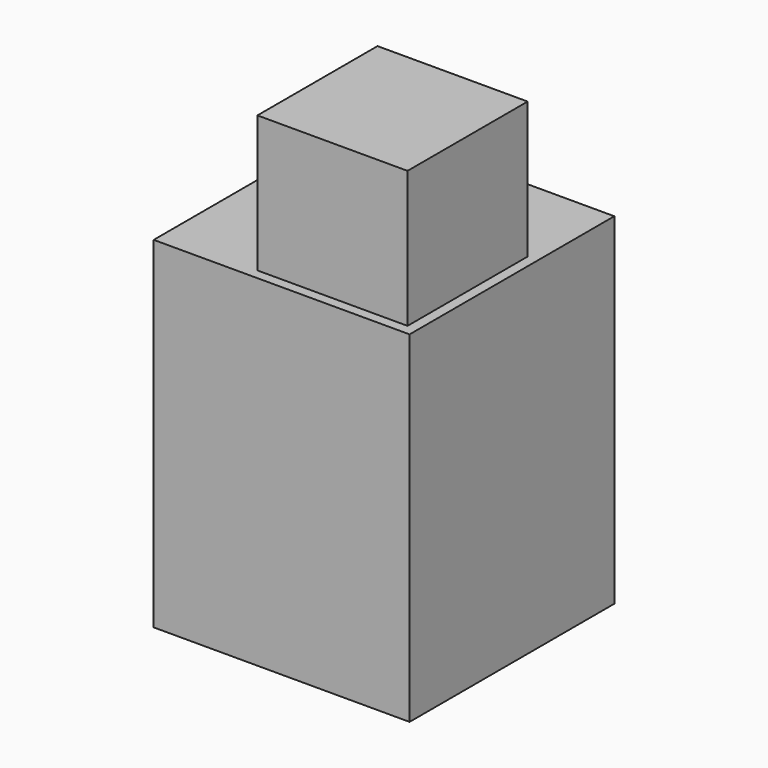
from build123d import *

# Parameters (mm, degrees)
BOX_W              = 10
BOX_H              = 10
BOX_DEPTH          = 10
SKETCH_W           = 4.4
SKETCH_H           = 4.4
PAD_DEPTH          = 4
PAD_FACE4_W        = 10
PAD_FACE4_H        = 10
POCKET_DEPTH       = 2.5
POCKET_FACE5_W     = 10
POCKET_FACE5_H     = 10
POCKET001_DEPTH    = 2.5
SKETCH001_W        = 5
SKETCH001_H        = 10
PAD001_DEPTH       = 10
SKETCH002_W        = 4.4
SKETCH002_H        = 4.4
PAD002_DEPTH       = 4
PAD002_FACE22_W    = 4.4
PAD002_FACE22_H    = 4.4
POCKET002_DEPTH    = 5
POCKET002_FACE16_W = 5
POCKET002_FACE16_H = 10
POCKET003_DEPTH    = 7.5
POCKET003_FACE7_W  = 2.5
POCKET003_FACE7_H  = 10
POCKET004_DEPTH    = 5


with BuildPart() as part:
    # Box → Box (new body)
    with BuildSketch(Plane.XY):
        with Locations((5, 5)):
            Rectangle(BOX_W, BOX_H)
    extrude(amount=BOX_DEPTH)

    # Sketch (on Face6 of BaseFeature) → Pad (new body)
    with BuildSketch(Plane.XY.offset(10)):
        with Locations((5, 5)):
            Rectangle(SKETCH_W, SKETCH_H)
    extrude(amount=PAD_DEPTH)

    # Pad Face4 → Pocket (cut)
    with BuildSketch(Plane(origin=(5, 10, 5), x_dir=(1, 0, 0), z_dir=(0, 1, 0))):
        Rectangle(PAD_FACE4_W, PAD_FACE4_H)
    extrude(amount=-POCKET_DEPTH, mode=Mode.SUBTRACT)

    # Pocket Face5 → Pocket001 (cut)
    with BuildSketch(Plane(origin=(5, 0, 5), x_dir=(-1, 0, 0), z_dir=(0, -1, 0))):
        Rectangle(POCKET_FACE5_W, POCKET_FACE5_H)
    extrude(amount=-POCKET001_DEPTH, mode=Mode.SUBTRACT)

    # Sketch001 (on Face3 of Pocket001) → Pad001 (join)
    with BuildSketch(Plane(origin=(0, 7.5, 0), x_dir=(-1, 0, 0), z_dir=(0, 1, 0))):
        with Locations((-5, 5)):
            Rectangle(SKETCH001_W, SKETCH001_H)
    extrude(amount=PAD001_DEPTH)

    # Sketch002 (on Face6 of Pad001) → Pad002 (join)
    with BuildSketch(Plane.XY.offset(10)):
        with Locations((5, 12.5)):
            Rectangle(SKETCH002_W, SKETCH002_H)
    extrude(amount=PAD002_DEPTH)

    # Pad002 Face22 → Pocket002 (cut)
    with BuildSketch(Plane(origin=(5, 12.5, 14), x_dir=(0, 1, 0), z_dir=(0, 0, 1))):
        Rectangle(PAD002_FACE22_W, PAD002_FACE22_H)
    extrude(amount=-POCKET002_DEPTH, mode=Mode.SUBTRACT)

    # Pocket002 Face16 → Pocket003 (cut)
    with BuildSketch(Plane(origin=(5, 17.5, 5), x_dir=(1, 0, 0), z_dir=(0, 1, 0))):
        Rectangle(POCKET002_FACE16_W, POCKET002_FACE16_H)
    extrude(amount=-POCKET003_DEPTH, mode=Mode.SUBTRACT)

    # Pocket003 Face7 → Pocket004 (cut)
    with BuildSketch(Plane(origin=(8.75, 7.5, 5), x_dir=(1, 0, 0), z_dir=(0, 1, 0))):
        Rectangle(POCKET003_FACE7_W, POCKET003_FACE7_H)
    extrude(amount=-POCKET004_DEPTH, mode=Mode.SUBTRACT)


solid = part.part
